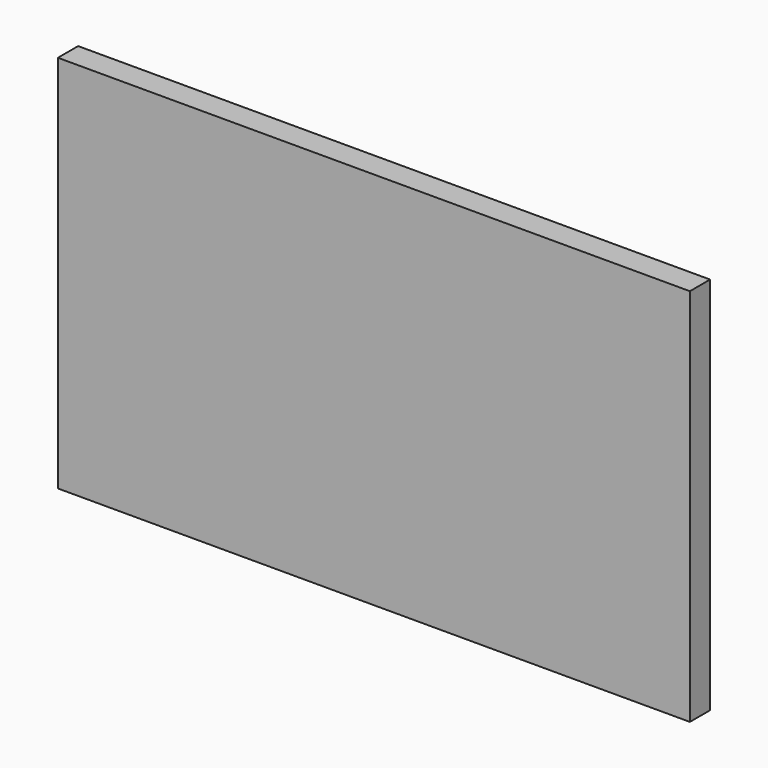
from build123d import *

# Parameters (mm, degrees)
F1_W     = 127
F1_H     = 76.2
F2_DEPTH = 2.54
F3_W     = 127
F3_H     = 76.2
F5_DEPTH = 2.54


with BuildPart() as f2:
    # F1 (on face) → F2 (new body)
    with BuildSketch(Plane.XZ):
        with Locations((0, -1.074129)):
            Rectangle(F1_W, F1_H)
    extrude(amount=F2_DEPTH)

    # F3 (on face) → F5 (join)
    with BuildSketch(Plane.XZ.offset(2.54)):
        with Locations((0, -1.074129)):
            Rectangle(F3_W, F3_H)
    extrude(amount=F5_DEPTH)


solid = f2.part
